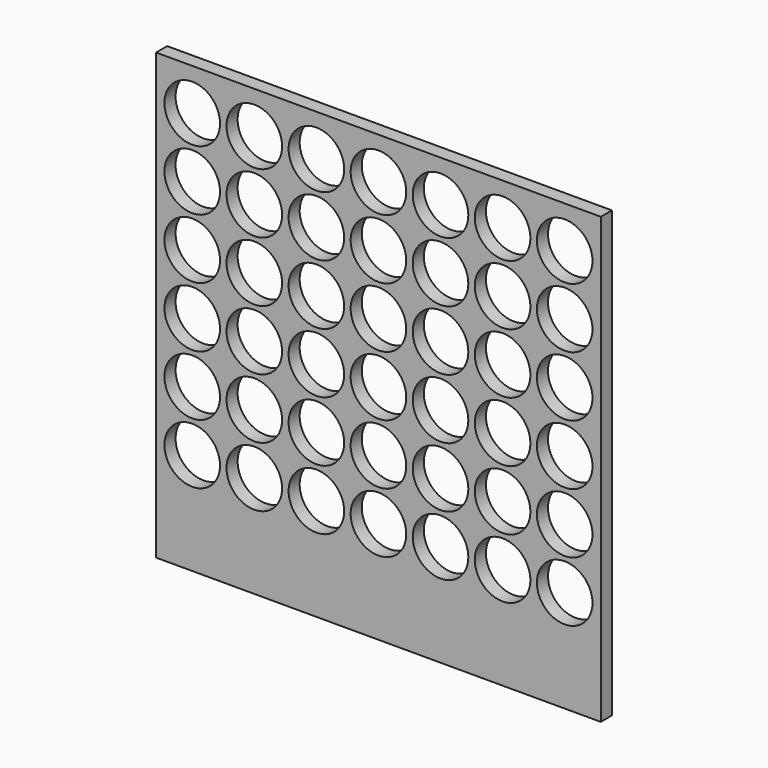
from build123d import *

# Parameters (mm, degrees)
F0_W     = 609.6
F0_H     = 609.6
F0_R     = 38.1
F1_DEPTH = 19.05


with BuildPart() as f1:
    # F0 (on Front) → F1 (new body)
    with BuildSketch(Plane.XZ):
        Rectangle(F0_W, F0_H)
        with Locations((-255.27, -165.1)):
            Circle(F0_R, mode=Mode.SUBTRACT)
        with Locations((-170.18, -165.1)):
            Circle(F0_R, mode=Mode.SUBTRACT)
        with Locations((-85.09, -165.1)):
            Circle(F0_R, mode=Mode.SUBTRACT)
        with Locations((-255.27, -82.55)):
            Circle(F0_R, mode=Mode.SUBTRACT)
        with Locations((-170.18, -82.55)):
            Circle(F0_R, mode=Mode.SUBTRACT)
        with Locations((-85.09, -82.55)):
            Circle(F0_R, mode=Mode.SUBTRACT)
        with Locations((0, -165.1)):
            Circle(F0_R, mode=Mode.SUBTRACT)
        with Locations((85.09, -165.1)):
            Circle(F0_R, mode=Mode.SUBTRACT)
        with Locations((170.18, -165.1)):
            Circle(F0_R, mode=Mode.SUBTRACT)
        with Locations((255.27, -165.1)):
            Circle(F0_R, mode=Mode.SUBTRACT)
        with Locations((0, -82.55)):
            Circle(F0_R, mode=Mode.SUBTRACT)
        with Locations((85.09, -82.55)):
            Circle(F0_R, mode=Mode.SUBTRACT)
        with Locations((170.18, -82.55)):
            Circle(F0_R, mode=Mode.SUBTRACT)
        with Locations((255.27, -82.55)):
            Circle(F0_R, mode=Mode.SUBTRACT)
        with Locations((-255.27, 0)):
            Circle(F0_R, mode=Mode.SUBTRACT)
        with Locations((-170.18, 0)):
            Circle(F0_R, mode=Mode.SUBTRACT)
        with Locations((-255.27, 82.55)):
            Circle(F0_R, mode=Mode.SUBTRACT)
        with Locations((-170.18, 82.55)):
            Circle(F0_R, mode=Mode.SUBTRACT)
        with Locations((-85.09, 0)):
            Circle(F0_R, mode=Mode.SUBTRACT)
        with Locations((-85.09, 82.55)):
            Circle(F0_R, mode=Mode.SUBTRACT)
        with Locations((-255.27, 165.1)):
            Circle(F0_R, mode=Mode.SUBTRACT)
        with Locations((-170.18, 165.1)):
            Circle(F0_R, mode=Mode.SUBTRACT)
        with Locations((-255.27, 247.65)):
            Circle(F0_R, mode=Mode.SUBTRACT)
        with Locations((-170.18, 247.65)):
            Circle(F0_R, mode=Mode.SUBTRACT)
        with Locations((-85.09, 165.1)):
            Circle(F0_R, mode=Mode.SUBTRACT)
        with Locations((-85.09, 247.65)):
            Circle(F0_R, mode=Mode.SUBTRACT)
        Circle(F0_R, mode=Mode.SUBTRACT)
        with Locations((85.09, 0)):
            Circle(F0_R, mode=Mode.SUBTRACT)
        with Locations((0, 82.55)):
            Circle(F0_R, mode=Mode.SUBTRACT)
        with Locations((85.09, 82.55)):
            Circle(F0_R, mode=Mode.SUBTRACT)
        with Locations((170.18, 0)):
            Circle(F0_R, mode=Mode.SUBTRACT)
        with Locations((255.27, 0)):
            Circle(F0_R, mode=Mode.SUBTRACT)
        with Locations((170.18, 82.55)):
            Circle(F0_R, mode=Mode.SUBTRACT)
        with Locations((255.27, 82.55)):
            Circle(F0_R, mode=Mode.SUBTRACT)
        with Locations((0, 165.1)):
            Circle(F0_R, mode=Mode.SUBTRACT)
        with Locations((85.09, 165.1)):
            Circle(F0_R, mode=Mode.SUBTRACT)
        with Locations((0, 247.65)):
            Circle(F0_R, mode=Mode.SUBTRACT)
        with Locations((85.09, 247.65)):
            Circle(F0_R, mode=Mode.SUBTRACT)
        with Locations((170.18, 165.1)):
            Circle(F0_R, mode=Mode.SUBTRACT)
        with Locations((255.27, 165.1)):
            Circle(F0_R, mode=Mode.SUBTRACT)
        with Locations((170.18, 247.65)):
            Circle(F0_R, mode=Mode.SUBTRACT)
        with Locations((255.27, 247.65)):
            Circle(F0_R, mode=Mode.SUBTRACT)
    extrude(amount=F1_DEPTH)


solid = f1.part
